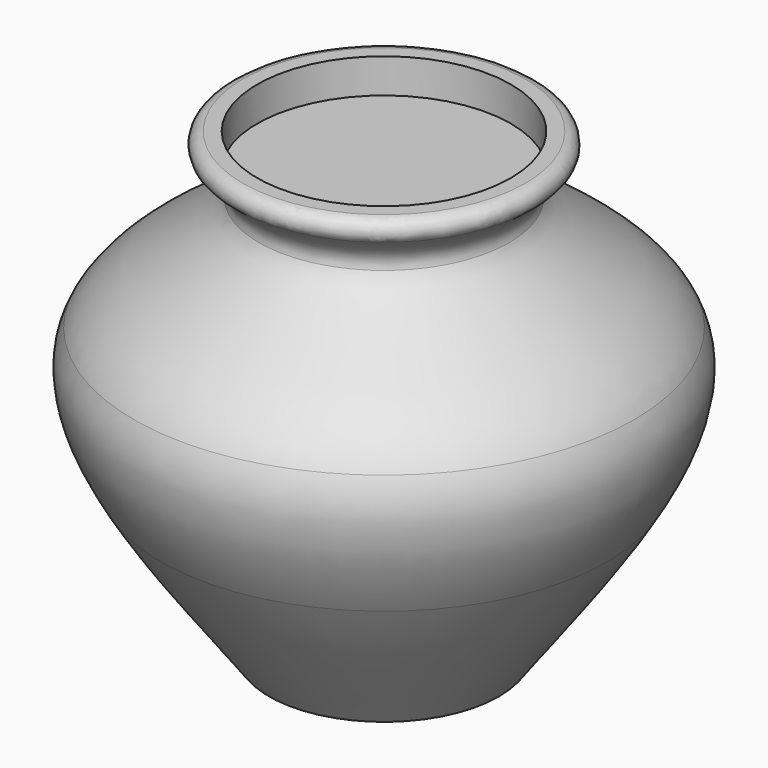
from build123d import *

# Parameters (mm, degrees)
F2_R     = 1.27
F3_R     = 14.0009089704
F4_DEPTH = 3.81


with BuildPart() as f1:
    # F0 (on Front) → F1 (revolve)
    with BuildSketch(Plane.XZ):
        with BuildLine():
            Line((0, 19.05), (0, 12.7))
            Line((0, 12.7), (13.8125655637, 12.7))
            add(Edge.make_bspline(
                [(13.8125655637, 12.7), (13.0663921948, 14.9251647648), (16.4344619114, 16.9022058016), (19.847298041, 19.05)],
                knots=[0.7760230667, 0.7760230667, 0.7760230667, 0.7760230667, 1, 1, 1, 1], degree=3))
            Line((19.847298041, 19.05), (0, 19.05))
        make_face()
        with BuildLine():
            Line((0, 12.7), (0, 0))
            Line((0, 0), (27.6251311274, 0))
            add(Edge.make_bspline(
                [(27.6251311274, 0), (24.8091136566, 5.6553197035), (14.9046167578, 9.4433924344), (13.8125655637, 12.7)],
                knots=[0.4482248798, 0.4482248798, 0.4482248798, 0.4482248798, 0.7760230667, 0.7760230667, 0.7760230667, 0.7760230667], degree=3))
            Line((13.8125655637, 12.7), (0, 12.7))
        make_face()
        with BuildLine():
            Line((0, 0), (0, -14.7634614258))
            Line((0, -14.7634614258), (24.6674361824, -14.7634614258))
            add(Edge.make_bspline(
                [(24.6674361824, -14.7634614258), (28.0198990008, -9.0674738483), (29.6437756284, -4.0539805378), (27.6251311274, 0)],
                knots=[0.2132448009, 0.2132448009, 0.2132448009, 0.2132448009, 0.4482248798, 0.4482248798, 0.4482248798, 0.4482248798], degree=3))
            Line((27.6251311274, 0), (0, 0))
        make_face()
        with BuildLine():
            Line((0, -14.7634614258), (0, -31.75))
            Line((0, -31.75), (12.7, -31.75))
            add(Edge.make_bspline(
                [(12.7, -31.75), (17.1591123173, -25.6637716878), (21.6250707627, -19.9325793474), (24.6674361824, -14.7634614258)],
                knots=[0, 0, 0, 0, 0.2132448009, 0.2132448009, 0.2132448009, 0.2132448009], degree=3))
            Line((24.6674361824, -14.7634614258), (0, -14.7634614258))
        make_face()
    revolve(axis=Axis((0, 0, 15.875), (0, 0, -1)))

    # F2
    f2_edges = [f1.edges().sort_by_distance(p)[0] for p in [
        (-19.847298, 0, 19.05),
    ]]
    fillet(f2_edges, radius=F2_R)

    # F3 (on face) → F4 (cut)
    with BuildSketch(Plane.XY.offset(19.05)):
        Circle(F3_R)
    extrude(amount=-F4_DEPTH, mode=Mode.SUBTRACT)


solid = f1.part
